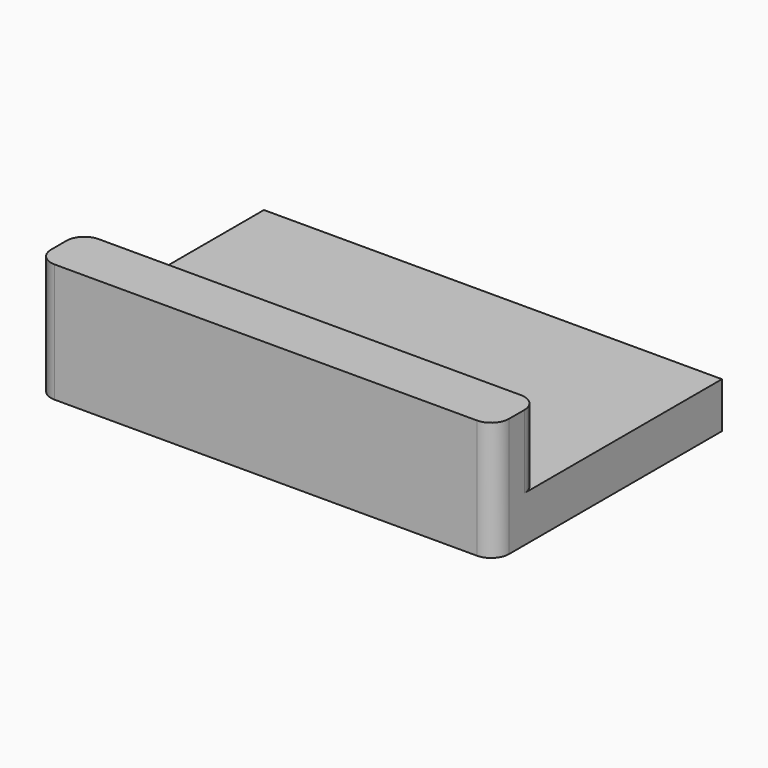
from build123d import *

# Parameters (mm, degrees)
SKETCH002_W  = 10
SKETCH002_H  = 1.2
PAD002_DEPTH = 1.6
SKETCH003_W  = 10
SKETCH003_H  = 6.2
PAD003_DEPTH = 1
FILLET001_R  = 0.39


with BuildPart() as part:
    # Sketch002 → Pad002 (new body)
    with BuildSketch(Plane.XY):
        with Locations((5, -0.6)):
            Rectangle(SKETCH002_W, SKETCH002_H)
    extrude(amount=PAD002_DEPTH)

    # Sketch003 → Pad003 (join)
    with BuildSketch(Plane.XY):
        with Locations((5, 1.9)):
            Rectangle(SKETCH003_W, SKETCH003_H)
    extrude(amount=-PAD003_DEPTH)

    # Fillet001
    fillet001_edges = [part.edges().sort_by_distance(p)[0] for p in [
        (0, -1.2, 0.3),
        (10, -1.2, 0.3),
        (10, 0, 0.8),
        (0, 0, 0.8),
    ]]
    fillet(fillet001_edges, radius=FILLET001_R)


with BuildPart() as part_1:
    # Clone001 placement: moved
    add(part.part.moved(Location((0, -6.5, 0))))


solid = part_1.part
